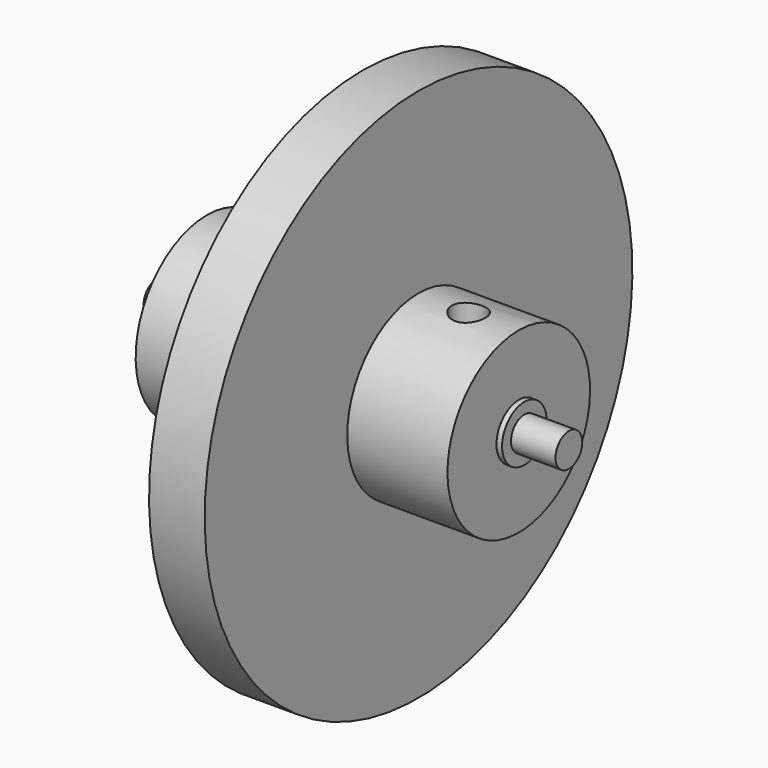
from build123d import *

# Parameters (mm, degrees)
F3_R      = 1.5
F4_DEPTH  = 8
F5_R      = 1.5
F6_DEPTH  = 14.501
F9_R      = 1.5
F10_DEPTH = 8
F11_R     = 1.5
F12_DEPTH = 14.5
F13_R     = 1
F14_DEPTH = 6
F15_DEPTH = 6
F16_R     = 1.5
F17_DEPTH = 18.5


with BuildPart() as f1:
    # F0 (on Front) → F1 (revolve)
    with BuildSketch(Plane.XZ):
        Polygon((0, 24), (0, 0), (14.5, 0), (14.5, 2.5), (14, 2.5), (14, 8), (5, 8), (5, 24), align=None)
    revolve(axis=Axis((7.25, 0, 0), (-1, 0, 0)))

    # F3 (on line) → F4 (cut)
    with BuildSketch(Plane.XY.offset(8)):
        with Locations((9.5, 0)):
            Circle(F3_R)
    extrude(amount=-F4_DEPTH, mode=Mode.SUBTRACT)

    # F5 (on face) → F6 (cut, through all)
    with BuildSketch(Plane.YZ.offset(14.5)):
        Circle(F5_R)
    extrude(amount=-F6_DEPTH, mode=Mode.SUBTRACT)

    # F13 (on face) → F15 (cut)
    with BuildSketch(Plane.YZ):
        with Locations((4, 0)):
            Circle(F13_R)
    extrude(amount=F15_DEPTH, mode=Mode.SUBTRACT)


with BuildPart() as f8:
    # F7 (on Front) → F8 (revolve)
    with BuildSketch(Plane.XZ):
        Polygon((-14.5, 0), (0, 0), (0, 9), (-5, 9), (-5, 8), (-14, 8), (-14, 2.5), (-14.5, 2.5), align=None)
    revolve(axis=Axis((-7.25, 0, 0), (1, 0, 0)))

    # F9 (on line) → F10 (cut)
    with BuildSketch(Plane.XY.offset(8)):
        with Locations((-9.5, 0)):
            Circle(F9_R)
    extrude(amount=-F10_DEPTH, mode=Mode.SUBTRACT)

    # F11 (on face) → F12 (cut, through all)
    with BuildSketch(Plane(origin=(-14.5, 0, 0), x_dir=(0, -1, 0), z_dir=(-1, 0, 0))):
        Circle(F11_R)
    extrude(amount=-F12_DEPTH, mode=Mode.SUBTRACT)

    # F13 (on face) → F14 (cut)
    with BuildSketch(Plane.YZ):
        with Locations((4, 0)):
            Circle(F13_R)
    extrude(amount=-F14_DEPTH, mode=Mode.SUBTRACT)


with BuildPart() as f17:
    # F16 (on Right) → F17 (new body, symmetric)
    with BuildSketch(Plane.YZ):
        Circle(F16_R)
    extrude(amount=F17_DEPTH, both=True)


solid = Compound([f1.part, f8.part, f17.part])
